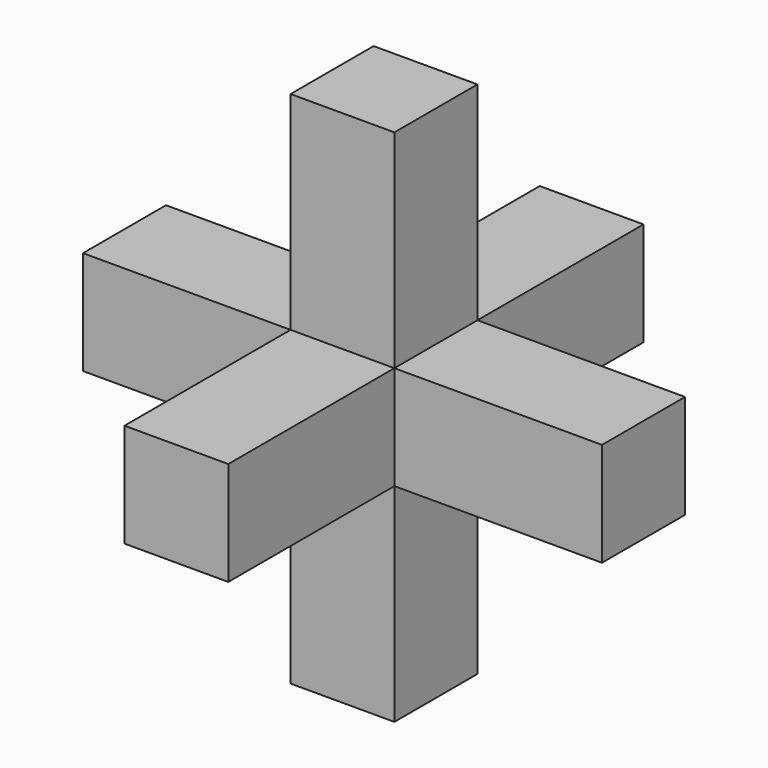
from build123d import *

# Parameters (mm, degrees)
F1_DEPTH = 2.5
F2_W     = 5
F2_H     = 5
F3_DEPTH = 12.5


with BuildPart() as f1:
    # F0 (on Top) → F1 (new body, symmetric)
    with BuildSketch(Plane.XY):
        Polygon((12.5, -2.5), (12.5, 2.5), (2.5, 2.5), (2.5, 12.5), (-2.5, 12.5), (-2.5, 2.5), (-12.5, 2.5), (-12.5, -2.5), (-2.5, -2.5), (-2.5, -12.5), (2.5, -12.5), (2.5, -2.5), align=None)
    extrude(amount=F1_DEPTH, both=True)

    # F2 (on Top) → F3 (join, symmetric)
    with BuildSketch(Plane.XY):
        Rectangle(F2_W, F2_H)
    extrude(amount=F3_DEPTH, both=True)


solid = f1.part
